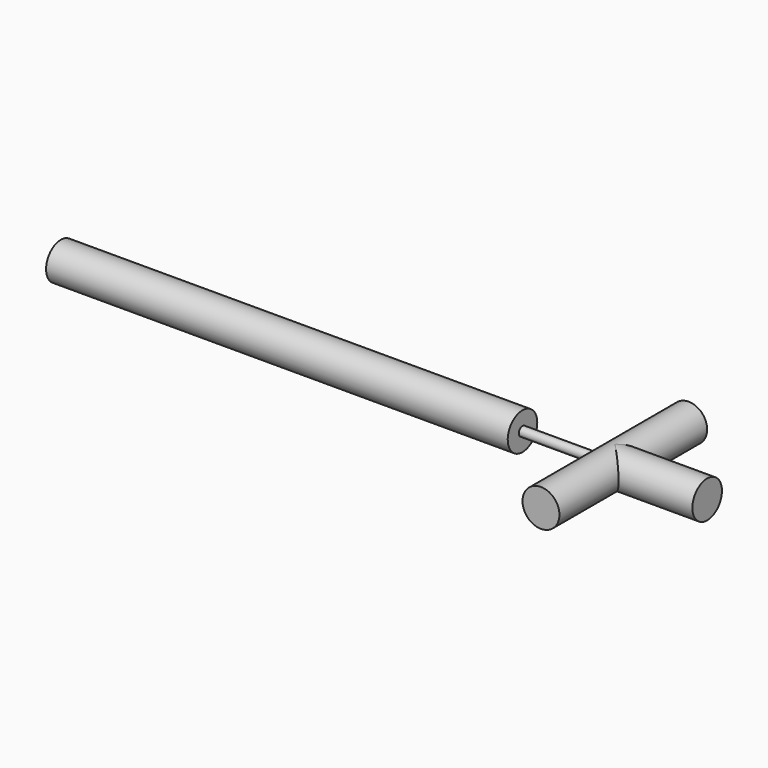
from build123d import *

# Parameters (mm, degrees)
CYLINDER_R        = 5
CYLINDER_DEPTH    = 100
CYLINDER001_R     = 20
CYLINDER001_DEPTH = 200
CYLINDER002_R     = 20
CYLINDER002_DEPTH = 500
CYLINDER003_R     = 20
CYLINDER003_DEPTH = 100


with BuildPart() as cylinder:
    # Cylinder → Cylinder (new body)
    with BuildSketch(Plane(origin=(500, 0, 0), x_dir=(0, 0, -1), z_dir=(1, 0, 0))):
        Circle(CYLINDER_R)
    extrude(amount=CYLINDER_DEPTH)


with BuildPart() as cylinder001:
    # Cylinder001 → Cylinder001 (new body)
    with BuildSketch(Plane(origin=(600, 100, 0), x_dir=(1, 0, 0), z_dir=(0, -1, 0))):
        Circle(CYLINDER001_R)
    extrude(amount=CYLINDER001_DEPTH)


with BuildPart() as cylinder002:
    # Cylinder002 → Cylinder002 (new body)
    with BuildSketch(Plane(origin=(0, 0, 0), x_dir=(0, 0, -1), z_dir=(1, 0, 0))):
        Circle(CYLINDER002_R)
    extrude(amount=CYLINDER002_DEPTH)


with BuildPart() as cylinder003:
    # Cylinder003 → Cylinder003 (new body)
    with BuildSketch(Plane(origin=(600, 0, 0), x_dir=(0, 0, -1), z_dir=(1, 0, 0))):
        Circle(CYLINDER003_R)
    extrude(amount=CYLINDER003_DEPTH)


solid = Compound([cylinder.part, cylinder001.part, cylinder002.part, cylinder003.part])
